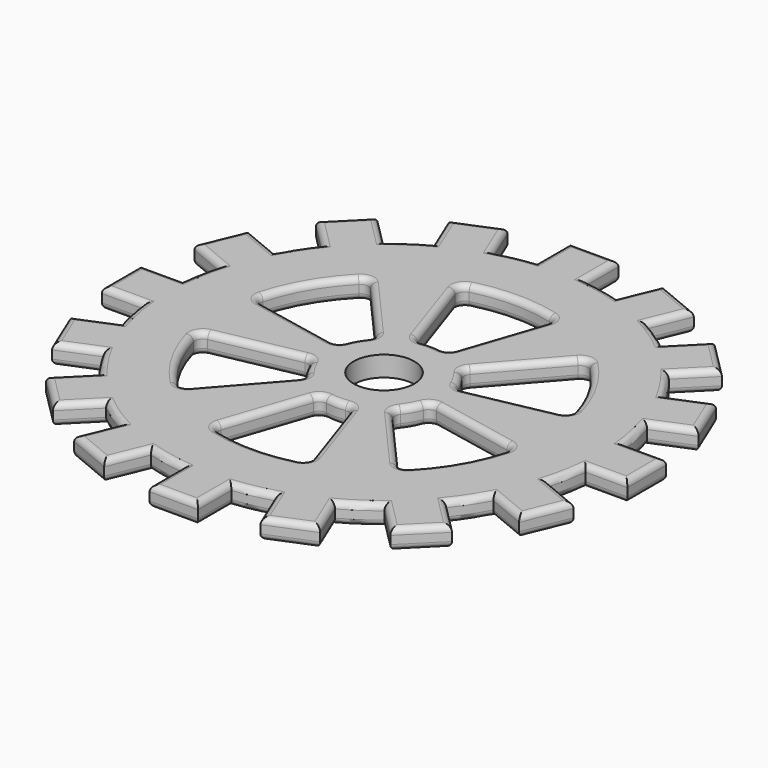
from build123d import *

# Parameters (mm, degrees)
F1_DEPTH = 3.175
F2_R     = 1.905
F3_R     = 9.525
F4_DEPTH = 25.4


with BuildPart() as f1:
    # F0 (on Top) → F1 (new body, symmetric)
    with BuildSketch(Plane.XY):
        with BuildLine():
            Line((-7.62, 82.55), (-7.62, 69.43312))
            ThreePointArc((-7.62, 69.43312), (-13.627059, 68.507852), (-19.530942, 67.063886))
            Line((-19.530942, 67.063886), (-24.550555, 79.182303))
            Line((-24.550555, 79.182303), (-38.630479, 73.350208))
            Line((-38.630479, 73.350208), (-33.610866, 61.23179))
            ThreePointArc((-33.610866, 61.23179), (-38.806581, 58.078153), (-43.708476, 54.484784))
            Line((-43.708476, 54.484784), (-52.983511, 63.759819))
            Line((-52.983511, 63.759819), (-63.759818, 52.983511))
            Line((-63.759818, 52.983511), (-54.484783, 43.708476))
            ThreePointArc((-54.484783, 43.708476), (-58.078152, 38.806581), (-61.23179, 33.610867))
            Line((-61.23179, 33.610867), (-73.350208, 38.63048))
            Line((-73.350208, 38.63048), (-79.182303, 24.550556))
            Line((-79.182303, 24.550556), (-67.063886, 19.530943))
            ThreePointArc((-67.063886, 19.530943), (-68.507852, 13.627059), (-69.43312, 7.62))
            Line((-69.43312, 7.62), (-82.55, 7.62))
            Line((-82.55, 7.62), (-82.55, -7.62))
            Line((-82.55, -7.62), (-69.43312, -7.62))
            ThreePointArc((-69.43312, -7.62), (-68.507852, -13.627059), (-67.063886, -19.530942))
            Line((-67.063886, -19.530942), (-79.182303, -24.550555))
            Line((-79.182303, -24.550555), (-73.350208, -38.630479))
            Line((-73.350208, -38.630479), (-61.23179, -33.610866))
            ThreePointArc((-61.23179, -33.610866), (-58.078153, -38.806581), (-54.484784, -43.708476))
            Line((-54.484784, -43.708476), (-63.759819, -52.983511))
            Line((-63.759819, -52.983511), (-52.983511, -63.759818))
            Line((-52.983511, -63.759818), (-43.708476, -54.484783))
            ThreePointArc((-43.708476, -54.484783), (-38.806581, -58.078152), (-33.610867, -61.23179))
            Line((-33.610867, -61.23179), (-38.63048, -73.350208))
            Line((-38.63048, -73.350208), (-24.550556, -79.182303))
            Line((-24.550556, -79.182303), (-19.530943, -67.063886))
            ThreePointArc((-19.530943, -67.063886), (-13.627059, -68.507852), (-7.62, -69.43312))
            Line((-7.62, -69.43312), (-7.62, -82.55))
            Line((-7.62, -82.55), (7.62, -82.55))
            Line((7.62, -82.55), (7.62, -69.43312))
            ThreePointArc((7.62, -69.43312), (13.627059, -68.507852), (19.530942, -67.063886))
            Line((19.530942, -67.063886), (24.550555, -79.182303))
            Line((24.550555, -79.182303), (38.630479, -73.350208))
            Line((38.630479, -73.350208), (33.610866, -61.23179))
            ThreePointArc((33.610866, -61.23179), (38.806581, -58.078152), (43.708476, -54.484783))
            Line((43.708476, -54.484783), (52.983511, -63.759819))
            Line((52.983511, -63.759819), (63.759818, -52.983511))
            Line((63.759818, -52.983511), (54.484783, -43.708476))
            ThreePointArc((54.484783, -43.708476), (58.078152, -38.806581), (61.23179, -33.610867))
            Line((61.23179, -33.610867), (73.350208, -38.630479))
            Line((73.350208, -38.630479), (79.182303, -24.550555))
            Line((79.182303, -24.550555), (67.063886, -19.530943))
            ThreePointArc((67.063886, -19.530943), (68.507852, -13.627059), (69.43312, -7.62))
            Line((69.43312, -7.62), (82.55, -7.62))
            Line((82.55, -7.62), (82.55, 7.62))
            Line((82.55, 7.62), (69.43312, 7.62))
            ThreePointArc((69.43312, 7.62), (68.507852, 13.627059), (67.063886, 19.530942))
            Line((67.063886, 19.530942), (79.182303, 24.550555))
            Line((79.182303, 24.550555), (73.350208, 38.630479))
            Line((73.350208, 38.630479), (61.23179, 33.610867))
            ThreePointArc((61.23179, 33.610867), (58.078152, 38.806581), (54.484783, 43.708476))
            Line((54.484783, 43.708476), (63.759818, 52.983511))
            Line((63.759818, 52.983511), (52.983511, 63.759818))
            Line((52.983511, 63.759818), (43.708476, 54.484783))
            ThreePointArc((43.708476, 54.484783), (38.806581, 58.078152), (33.610867, 61.23179))
            Line((33.610867, 61.23179), (38.630479, 73.350208))
            Line((38.630479, 73.350208), (24.550555, 79.182303))
            Line((24.550555, 79.182303), (19.530943, 67.063886))
            ThreePointArc((19.530943, 67.063886), (13.627059, 68.507852), (7.62, 69.43312))
            Line((7.62, 69.43312), (7.62, 82.55))
            Line((7.62, 82.55), (-7.62, 82.55))
        make_face()
        with BuildLine():
            Line((-14.85831, -15.281661), (-32.588202, -35.428903))
            ThreePointArc((-32.588202, -35.428903), (-34.427911, -36.290005), (-36.310525, -35.527254))
            ThreePointArc((-36.310525, -35.527254), (-43.994091, -25.4), (-48.922767, -13.68221))
            ThreePointArc((-48.922767, -13.68221), (-48.642022, -11.670443), (-46.976431, -10.507759))
            Line((-46.976431, -10.507759), (-20.663462, -5.226844))
            ThreePointArc((-20.663462, -5.226844), (-18.937898, -5.492525), (-17.791464, -6.809281))
            ThreePointArc((-17.791464, -6.809281), (-16.497784, -9.525), (-14.792742, -12.00322))
            ThreePointArc((-14.792742, -12.00322), (-14.225615, -13.654438), (-14.85831, -15.281661))
        make_face(mode=Mode.SUBTRACT)
        with BuildLine():
            ThreePointArc((-5.805151, -20.508505), (-4.712283, -19.146964), (-2.998722, -18.8125))
            ThreePointArc((-2.998722, -18.8125), (0, -19.05), (2.998722, -18.8125))
            ThreePointArc((2.998722, -18.8125), (4.712283, -19.146964), (5.805151, -20.508505))
            Line((5.805151, -20.508505), (14.388229, -45.936662))
            ThreePointArc((14.388229, -45.936662), (14.214111, -47.960448), (12.612242, -49.209464))
            ThreePointArc((12.612242, -49.209464), (0, -50.8), (-12.612242, -49.209464))
            ThreePointArc((-12.612242, -49.209464), (-14.214111, -47.960448), (-14.388229, -45.936662))
            Line((-14.388229, -45.936662), (-5.805151, -20.508505))
        make_face(mode=Mode.SUBTRACT)
        with BuildLine():
            Line((20.663462, -5.226844), (46.976431, -10.507759))
            ThreePointArc((46.976431, -10.507759), (48.642022, -11.670443), (48.922767, -13.68221))
            ThreePointArc((48.922767, -13.68221), (43.994091, -25.4), (36.310525, -35.527254))
            ThreePointArc((36.310525, -35.527254), (34.427911, -36.290005), (32.588202, -35.428903))
            Line((32.588202, -35.428903), (14.85831, -15.281661))
            ThreePointArc((14.85831, -15.281661), (14.225615, -13.654438), (14.792742, -12.00322))
            ThreePointArc((14.792742, -12.00322), (16.497784, -9.525), (17.791464, -6.809281))
            ThreePointArc((17.791464, -6.809281), (18.937898, -5.492525), (20.663462, -5.226844))
        make_face(mode=Mode.SUBTRACT)
        with BuildLine():
            Line((-20.663462, 5.226844), (-46.976431, 10.507759))
            ThreePointArc((-46.976431, 10.507759), (-48.642022, 11.670443), (-48.922767, 13.68221))
            ThreePointArc((-48.922767, 13.68221), (-43.994091, 25.4), (-36.310525, 35.527254))
            ThreePointArc((-36.310525, 35.527254), (-34.427911, 36.290005), (-32.588202, 35.428903))
            Line((-32.588202, 35.428903), (-14.85831, 15.281661))
            ThreePointArc((-14.85831, 15.281661), (-14.225615, 13.654438), (-14.792742, 12.00322))
            ThreePointArc((-14.792742, 12.00322), (-16.497784, 9.525), (-17.791464, 6.809281))
            ThreePointArc((-17.791464, 6.809281), (-18.937898, 5.492525), (-20.663462, 5.226844))
        make_face(mode=Mode.SUBTRACT)
        with BuildLine():
            Line((-5.805151, 20.508505), (-14.388229, 45.936662))
            ThreePointArc((-14.388229, 45.936662), (-14.214111, 47.960448), (-12.612242, 49.209464))
            ThreePointArc((-12.612242, 49.209464), (0, 50.8), (12.612242, 49.209464))
            ThreePointArc((12.612242, 49.209464), (14.214111, 47.960448), (14.388229, 45.936662))
            Line((14.388229, 45.936662), (5.805151, 20.508505))
            ThreePointArc((5.805151, 20.508505), (4.712283, 19.146964), (2.998722, 18.8125))
            ThreePointArc((2.998722, 18.8125), (0, 19.05), (-2.998722, 18.8125))
            ThreePointArc((-2.998722, 18.8125), (-4.712283, 19.146964), (-5.805151, 20.508505))
        make_face(mode=Mode.SUBTRACT)
        with BuildLine():
            Line((14.85831, 15.281661), (32.588202, 35.428903))
            ThreePointArc((32.588202, 35.428903), (34.427911, 36.290005), (36.310525, 35.527254))
            ThreePointArc((36.310525, 35.527254), (43.994091, 25.4), (48.922767, 13.68221))
            ThreePointArc((48.922767, 13.68221), (48.642022, 11.670443), (46.976431, 10.507759))
            Line((46.976431, 10.507759), (20.663462, 5.226844))
            ThreePointArc((20.663462, 5.226844), (18.937898, 5.492525), (17.791464, 6.809281))
            ThreePointArc((17.791464, 6.809281), (16.497784, 9.525), (14.792742, 12.00322))
            ThreePointArc((14.792742, 12.00322), (14.225615, 13.654438), (14.85831, 15.281661))
        make_face(mode=Mode.SUBTRACT)
    extrude(amount=F1_DEPTH, both=True)

    # F2
    f2_edges = [f1.edges().sort_by_distance(p)[0] for p in [
        (-73.123095, -22.040749, 3.175),
        (-76.266256, -31.590517, 3.175),
        (-67.290999, -36.120673, 3.175),
        (-58.078153, -38.806581, 3.175),
        (-59.122301, -48.345993, 3.175),
        (-58.371665, -58.371665, 3.175),
        (-48.345994, -59.122301, 3.175),
        (-38.806581, -58.078152, 3.175),
        (-36.120673, -67.290999, 3.175),
        (-31.590518, -76.266255, 3.175),
        (-22.040749, -73.123094, 3.175),
        (-13.627059, -68.507852, 3.175),
        (-7.62, -75.99156, 3.175),
        (0, -82.55, 3.175),
        (7.62, -75.99156, 3.175),
        (13.627059, -68.507852, 3.175),
        (22.040749, -73.123095, 3.175),
        (31.590517, -76.266255, 3.175),
        (36.120673, -67.290999, 3.175),
        (38.806581, -58.078152, 3.175),
        (48.345993, -59.122301, 3.175),
        (58.371665, -58.371665, 3.175),
        (59.122301, -48.345994, 3.175),
        (58.078152, -38.806581, 3.175),
        (67.290999, -36.120673, 3.175),
        (76.266255, -31.590517, 3.175),
        (73.123094, -22.040749, 3.175),
        (68.507852, -13.627059, 3.175),
        (75.99156, -7.62, 3.175),
        (82.55, 0, 3.175),
        (75.99156, 7.62, 3.175),
        (68.507852, 13.627059, 3.175),
        (73.123095, 22.040749, 3.175),
        (76.266255, 31.590517, 3.175),
        (67.290999, 36.120673, 3.175),
        (58.078152, 38.806581, 3.175),
        (59.122301, 48.345994, 3.175),
        (58.371665, 58.371665, 3.175),
        (48.345994, 59.122301, 3.175),
        (38.806581, 58.078152, 3.175),
        (36.120673, 67.290999, 3.175),
        (31.590517, 76.266255, 3.175),
        (22.040749, 73.123094, 3.175),
        (13.627059, 68.507852, 3.175),
        (7.62, 75.99156, 3.175),
        (0, 82.55, 3.175),
        (-7.62, 75.99156, 3.175),
        (-13.627059, 68.507852, 3.175),
        (-22.040749, 73.123095, 3.175),
        (-31.590517, 76.266256, 3.175),
        (-36.120673, 67.290999, 3.175),
        (-38.806581, 58.078153, 3.175),
        (-48.345993, 59.122301, 3.175),
        (-58.371665, 58.371665, 3.175),
        (-59.122301, 48.345994, 3.175),
        (-58.078152, 38.806581, 3.175),
        (-67.290999, 36.120673, 3.175),
        (-76.266255, 31.590518, 3.175),
        (-73.123094, 22.040749, 3.175),
        (-68.507852, 13.627059, 3.175),
        (-75.99156, 7.62, 3.175),
        (-82.55, 0, 3.175),
        (-75.99156, -7.62, 3.175),
        (-68.507852, -13.627059, 3.175),
        (-23.723256, -25.355282, 3.175),
        (-34.427911, -36.290005, 3.175),
        (-43.994091, -25.4, 3.175),
        (-48.642022, -11.670443, 3.175),
        (-33.819946, -7.867301, 3.175),
        (-18.937898, -5.492525, 3.175),
        (-16.497784, -9.525, 3.175),
        (-14.225615, -13.654438, 3.175),
        (0, -50.8, 3.175),
        (-14.214111, -47.960448, 3.175),
        (-10.09669, -33.222583, 3.175),
        (-4.712283, -19.146964, 3.175),
        (0, -19.05, 3.175),
        (4.712283, -19.146964, 3.175),
        (10.09669, -33.222583, 3.175),
        (14.214111, -47.960448, 3.175),
        (33.819946, -7.867301, 3.175),
        (48.642022, -11.670443, 3.175),
        (43.994091, -25.4, 3.175),
        (34.427911, -36.290005, 3.175),
        (23.723256, -25.355282, 3.175),
        (14.225615, -13.654438, 3.175),
        (16.497784, -9.525, 3.175),
        (18.937898, -5.492525, 3.175),
        (-33.819946, 7.867301, 3.175),
        (-48.642022, 11.670443, 3.175),
        (-43.994091, 25.4, 3.175),
        (-34.427911, 36.290005, 3.175),
        (-23.723256, 25.355282, 3.175),
        (-14.225615, 13.654438, 3.175),
        (-16.497784, 9.525, 3.175),
        (-18.937898, 5.492525, 3.175),
        (-4.712283, 19.146964, 3.175),
        (-10.09669, 33.222583, 3.175),
        (-14.214111, 47.960448, 3.175),
        (0, 50.8, 3.175),
        (14.214111, 47.960448, 3.175),
        (10.09669, 33.222583, 3.175),
        (4.712283, 19.146964, 3.175),
        (0, 19.05, 3.175),
        (23.723256, 25.355282, 3.175),
        (34.427911, 36.290005, 3.175),
        (43.994091, 25.4, 3.175),
        (48.642022, 11.670443, 3.175),
        (33.819946, 7.867301, 3.175),
        (18.937898, 5.492525, 3.175),
        (16.497784, 9.525, 3.175),
        (14.225615, 13.654438, 3.175),
        (-73.123095, -22.040749, -3.175),
        (-76.266256, -31.590517, -3.175),
        (-67.290999, -36.120673, -3.175),
        (-58.078153, -38.806581, -3.175),
        (-59.122301, -48.345993, -3.175),
        (-58.371665, -58.371665, -3.175),
        (-48.345994, -59.122301, -3.175),
        (-38.806581, -58.078152, -3.175),
        (-36.120673, -67.290999, -3.175),
        (-31.590518, -76.266255, -3.175),
        (-22.040749, -73.123094, -3.175),
        (-13.627059, -68.507852, -3.175),
        (-7.62, -75.99156, -3.175),
        (0, -82.55, -3.175),
        (7.62, -75.99156, -3.175),
        (13.627059, -68.507852, -3.175),
        (22.040749, -73.123095, -3.175),
        (31.590517, -76.266255, -3.175),
        (36.120673, -67.290999, -3.175),
        (38.806581, -58.078152, -3.175),
        (48.345993, -59.122301, -3.175),
        (58.371665, -58.371665, -3.175),
        (59.122301, -48.345994, -3.175),
        (58.078152, -38.806581, -3.175),
        (67.290999, -36.120673, -3.175),
        (76.266255, -31.590517, -3.175),
        (73.123094, -22.040749, -3.175),
        (68.507852, -13.627059, -3.175),
        (75.99156, -7.62, -3.175),
        (82.55, 0, -3.175),
        (75.99156, 7.62, -3.175),
        (68.507852, 13.627059, -3.175),
        (73.123095, 22.040749, -3.175),
        (76.266255, 31.590517, -3.175),
        (67.290999, 36.120673, -3.175),
        (58.078152, 38.806581, -3.175),
        (59.122301, 48.345994, -3.175),
        (58.371665, 58.371665, -3.175),
        (48.345994, 59.122301, -3.175),
        (38.806581, 58.078152, -3.175),
        (36.120673, 67.290999, -3.175),
        (31.590517, 76.266255, -3.175),
        (22.040749, 73.123094, -3.175),
        (13.627059, 68.507852, -3.175),
        (7.62, 75.99156, -3.175),
        (0, 82.55, -3.175),
        (-7.62, 75.99156, -3.175),
        (-13.627059, 68.507852, -3.175),
        (-22.040749, 73.123095, -3.175),
        (-31.590517, 76.266256, -3.175),
        (-36.120673, 67.290999, -3.175),
        (-38.806581, 58.078153, -3.175),
        (-48.345993, 59.122301, -3.175),
        (-58.371665, 58.371665, -3.175),
        (-59.122301, 48.345994, -3.175),
        (-58.078152, 38.806581, -3.175),
        (-67.290999, 36.120673, -3.175),
        (-76.266255, 31.590518, -3.175),
        (-73.123094, 22.040749, -3.175),
        (-68.507852, 13.627059, -3.175),
        (-75.99156, 7.62, -3.175),
        (-82.55, 0, -3.175),
        (-75.99156, -7.62, -3.175),
        (-68.507852, -13.627059, -3.175),
        (-23.723256, -25.355282, -3.175),
        (-34.427911, -36.290005, -3.175),
        (-43.994091, -25.4, -3.175),
        (-48.642022, -11.670443, -3.175),
        (-33.819946, -7.867301, -3.175),
        (-18.937898, -5.492525, -3.175),
        (-16.497784, -9.525, -3.175),
        (-14.225615, -13.654438, -3.175),
        (0, -50.8, -3.175),
        (-14.214111, -47.960448, -3.175),
        (-10.09669, -33.222583, -3.175),
        (-4.712283, -19.146964, -3.175),
        (0, -19.05, -3.175),
        (4.712283, -19.146964, -3.175),
        (10.09669, -33.222583, -3.175),
        (14.214111, -47.960448, -3.175),
        (33.819946, -7.867301, -3.175),
        (48.642022, -11.670443, -3.175),
        (43.994091, -25.4, -3.175),
        (34.427911, -36.290005, -3.175),
        (23.723256, -25.355282, -3.175),
        (14.225615, -13.654438, -3.175),
        (16.497784, -9.525, -3.175),
        (18.937898, -5.492525, -3.175),
        (-33.819946, 7.867301, -3.175),
        (-48.642022, 11.670443, -3.175),
        (-43.994091, 25.4, -3.175),
        (-34.427911, 36.290005, -3.175),
        (-23.723256, 25.355282, -3.175),
        (-14.225615, 13.654438, -3.175),
        (-16.497784, 9.525, -3.175),
        (-18.937898, 5.492525, -3.175),
        (-4.712283, 19.146964, -3.175),
        (-10.09669, 33.222583, -3.175),
        (-14.214111, 47.960448, -3.175),
        (0, 50.8, -3.175),
        (14.214111, 47.960448, -3.175),
        (10.09669, 33.222583, -3.175),
        (4.712283, 19.146964, -3.175),
        (0, 19.05, -3.175),
        (23.723256, 25.355282, -3.175),
        (34.427911, 36.290005, -3.175),
        (43.994091, 25.4, -3.175),
        (48.642022, 11.670443, -3.175),
        (33.819946, 7.867301, -3.175),
        (18.937898, 5.492525, -3.175),
        (16.497784, 9.525, -3.175),
        (14.225615, 13.654438, -3.175),
    ]]
    fillet(f2_edges, radius=F2_R)

    # F3 (on Top) → F4 (cut, symmetric)
    with BuildSketch(Plane.XY):
        Circle(F3_R)
    extrude(amount=F4_DEPTH, both=True, mode=Mode.SUBTRACT)


solid = f1.part
